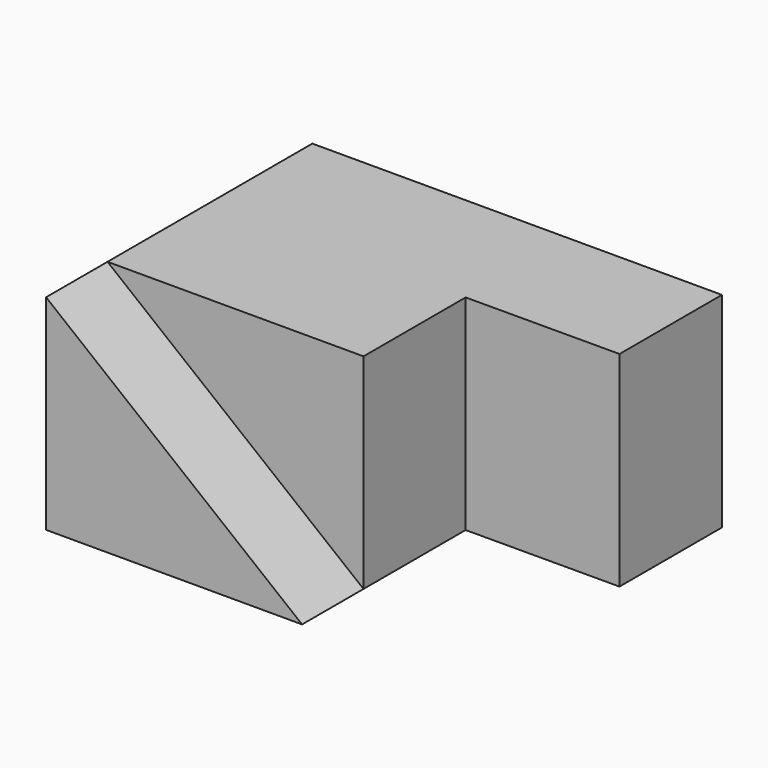
from build123d import *

# Parameters (mm, degrees)
F1_DEPTH = 15
F3_DEPTH = 40


with BuildPart() as f1:
    # F0 (on Front) → F1 (new body)
    with BuildSketch(Plane.XZ):
        Polygon((0, 40), (0, 0), (50, 0), align=None)
    extrude(amount=F1_DEPTH)

    # F2 (on Top) → F3 (join)
    with BuildSketch(Plane.XY):
        Polygon((0, 50), (0, 0), (50, 0), (50, 24.924569), (80, 25), (80, 50), align=None)
    extrude(amount=F3_DEPTH)


solid = f1.part
